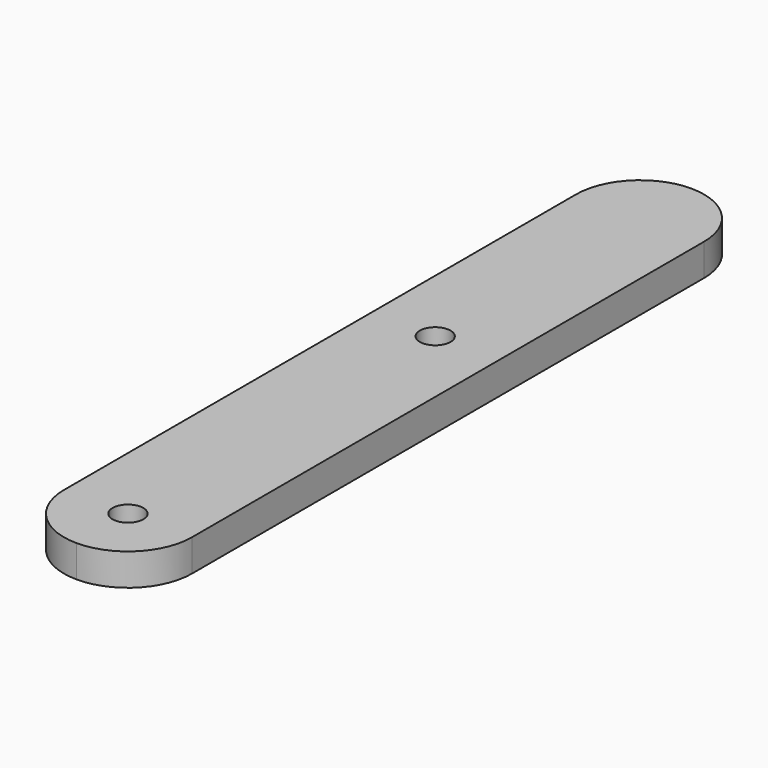
from build123d import *

# Parameters (mm, degrees)
F0_R     = 1.524
F1_DEPTH = 3.175


with BuildPart() as f1:
    # F0 (on Top) → F1 (new body)
    with BuildSketch(Plane.XY):
        with BuildLine():
            Line((-6.35, 25.4), (6.35, 25.4))
            Line((6.35, 25.4), (6.35, 44.45))
            ThreePointArc((6.35, 44.45), (4.490128, 48.940128), (0, 50.8))
            ThreePointArc((0, 50.8), (-4.490128, 48.940128), (-6.35, 44.45))
            Line((-6.35, 44.45), (-6.35, 25.4))
        make_face()
        with BuildLine():
            Line((6.35, -19.05), (6.35, 25.4))
            Line((6.35, 25.4), (-6.35, 25.4))
            Line((-6.35, 25.4), (-6.35, -19.05))
            ThreePointArc((-6.35, -19.05), (-4.490128, -23.540128), (0, -25.4))
            ThreePointArc((0, -25.4), (4.490128, -23.540128), (6.35, -19.05))
        make_face()
        with Locations((0, -19.05)):
            Circle(F0_R, mode=Mode.SUBTRACT)
        with Locations((0, 19.05)):
            Circle(F0_R, mode=Mode.SUBTRACT)
    extrude(amount=F1_DEPTH)


solid = f1.part
